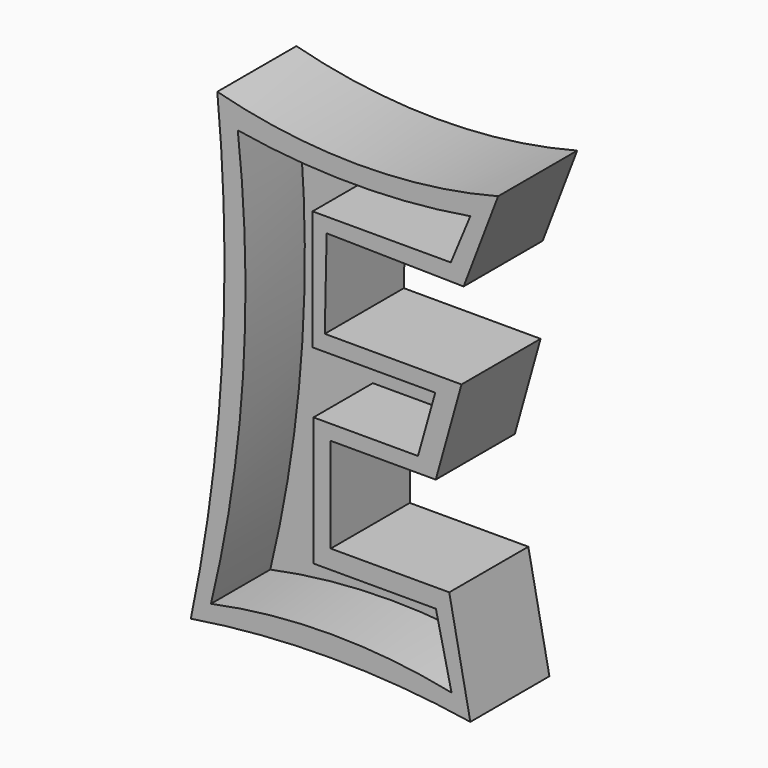
from build123d import *

# Parameters (mm, degrees)
F1_DEPTH = 20
F3_DEPTH = 15


with BuildPart() as f1:
    # F0 (on Front) → F1 (new body)
    with BuildSketch(Plane.XZ):
        with BuildLine():
            ThreePointArc((-22.612663, 45.829959), (-21.648274, -2.173289), (-27.970548, -49.76815))
            ThreePointArc((-27.970548, -49.76815), (0.30402, -47.531385), (28.578589, -49.76815))
            Line((28.578589, -49.76815), (24.315538, -28.074013))
            Line((24.315538, -28.074013), (0.335349, -28.074013))
            Line((0.335349, -28.074013), (0.335349, -8.886161))
            Line((0.335349, -8.886161), (21.583127, -8.886161))
            Line((21.583127, -8.886161), (26.793525, 9.761583))
            Line((26.793525, 9.761583), (-0.870097, 9.782478))
            Line((-0.870097, 9.782478), (-0.487141, 27.812652))
            Line((-0.487141, 27.812652), (27.219187, 27.347218))
            Line((27.219187, 27.347218), (34.197774, 45.68591))
            ThreePointArc((34.197774, 45.68591), (5.783316, 42.114253), (-22.612663, 45.829959))
        make_face()
    extrude(amount=F1_DEPTH)

    # F2 (on face) → F3 (cut)
    with BuildSketch(Plane.XZ.offset(20)):
        with BuildLine():
            ThreePointArc((-18.467791, 40.306851), (-17.397799, -2.980061), (-23.897298, -45.789618))
            ThreePointArc((-23.897298, -45.789618), (0.438529, -43.294133), (24.774356, -45.789618))
            Line((24.774356, -45.789618), (21.61289, -31.874683))
            Line((21.61289, -31.874683), (-3.148825, -31.874683))
            Line((-3.148825, -31.874683), (-3.148825, -5.843956))
            Line((-3.148825, -5.843956), (17.987471, -5.843956))
            Line((17.987471, -5.843956), (21.477869, 6.566346))
            Line((21.477869, 6.566346), (-3.342735, 6.566346))
            Line((-3.342735, 6.566346), (-3.342735, 30.78722))
            Line((-3.342735, 30.78722), (24.629438, 30.78722))
            Line((24.629438, 30.78722), (28.578589, 40.306851))
            ThreePointArc((28.578589, 40.306851), (5.055399, 38.339983), (-18.467791, 40.306851))
        make_face()
    extrude(amount=-F3_DEPTH, mode=Mode.SUBTRACT)


solid = f1.part
